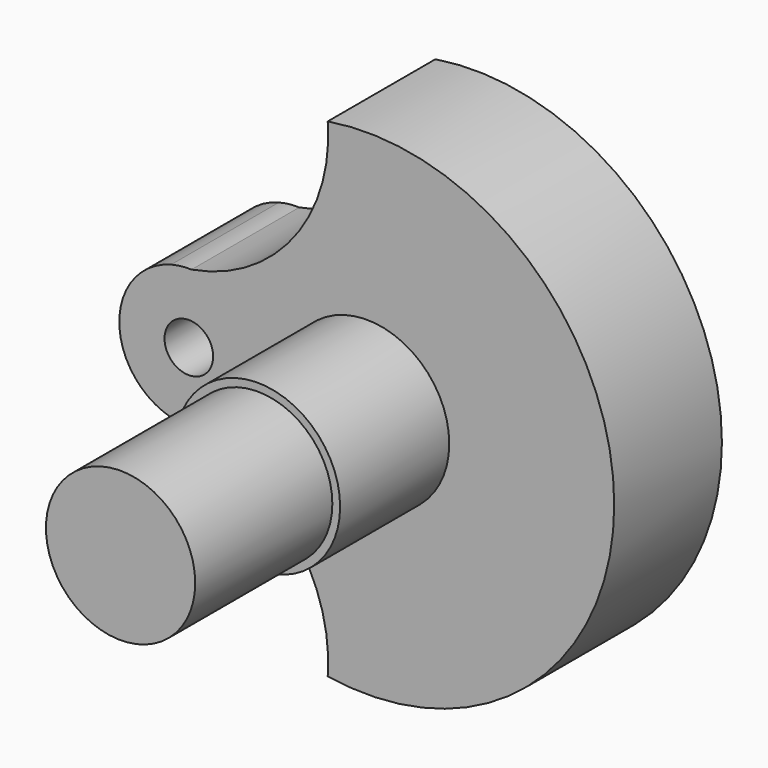
from build123d import *

# Parameters (mm, degrees)
F0_R     = 2.065749
F0_R_2   = 6.9977
F1_DEPTH = 11.43
F0_R_3   = 6.3373
F2_DEPTH = 23.0124
F3_DEPTH = 37.5666


with BuildPart() as f1:
    # F0 (on Front) → F1 (new body)
    with BuildSketch(Plane.XZ):
        with BuildLine():
            ThreePointArc((-14.886502, -5.901155), (-6.237069, -11.087668), (-3.319826, -20.741803))
            ThreePointArc((-3.319826, -20.741803), (21.0058, 0), (-3.319826, 20.741803))
            ThreePointArc((-3.319826, 20.741803), (-6.237069, 11.087668), (-14.886502, 5.901155))
            ThreePointArc((-14.886502, 5.901155), (-15.747764, 5.779367), (-16.614929, 5.711317))
            ThreePointArc((-16.614929, 5.711317), (-19.646861, 3.78405), (-21.000843, 0.456331))
            ThreePointArc((-21.000843, 0.456331), (-21.0058, 0), (-21.000843, -0.456331))
            ThreePointArc((-21.000843, -0.456331), (-19.646861, -3.78405), (-16.614929, -5.711317))
            ThreePointArc((-16.614929, -5.711317), (-15.747764, -5.779367), (-14.886502, -5.901155))
        make_face()
        with Locations((-15.113, 0)):
            Circle(F0_R, mode=Mode.SUBTRACT)
        Circle(F0_R_2, mode=Mode.SUBTRACT)
        with BuildLine():
            ThreePointArc((-16.614929, -5.711317), (-15.757741, -5.870199), (-14.886502, -5.901155))
            ThreePointArc((-14.886502, -5.901155), (-15.747764, -5.779367), (-16.614929, -5.711317))
        make_face()
        with BuildLine():
            ThreePointArc((-16.614929, 5.711317), (-15.747764, 5.779367), (-14.886502, 5.901155))
            ThreePointArc((-14.886502, 5.901155), (-15.757741, 5.870199), (-16.614929, 5.711317))
        make_face()
        with BuildLine():
            ThreePointArc((-21.000843, 0.456331), (-21.0185, 0), (-21.000843, -0.456331))
            ThreePointArc((-21.000843, -0.456331), (-21.0058, 0), (-21.000843, 0.456331))
        make_face()
    extrude(amount=F1_DEPTH)

    # F0 (on Front) → F2 (join)
    with BuildSketch(Plane.XZ):
        Circle(F0_R_2)
        Circle(F0_R_3, mode=Mode.SUBTRACT)
    extrude(amount=F2_DEPTH)

    # F0 (on Front) → F3 (join)
    with BuildSketch(Plane.XZ):
        Circle(F0_R_3)
    extrude(amount=F3_DEPTH)


solid = f1.part
